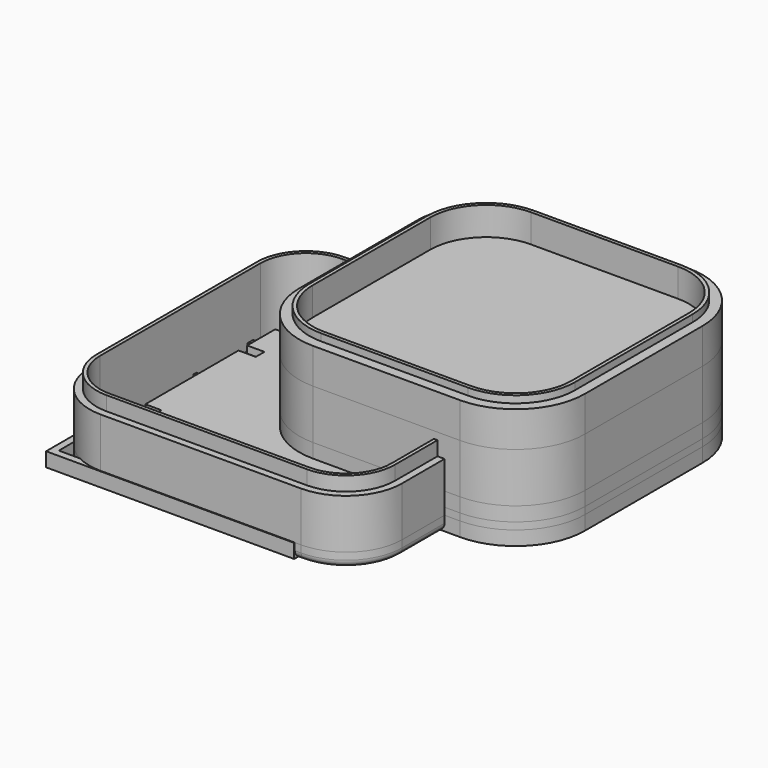
from build123d import *

# Parameters (mm, degrees)
PAD_DEPTH       = 12
POCKET001_DEPTH = 10
PAD001_DEPTH    = 5
PAD002_DEPTH    = 1
POCKET_DEPTH    = 3
PAD003_DEPTH    = 2
PAD004_DEPTH    = 2
POCKET002_DEPTH = 3
PAD005_DEPTH    = 5
PAD006_DEPTH    = 1
FILLET_R        = 3
SKETCH020_R     = 3.85
POCKET003_DEPTH = 5
FILLET001_R     = 1
POCKET004_DEPTH = 4
PAD007_DEPTH    = 1
PAD008_DEPTH    = 3
SKETCH025_R     = 4.275
POCKET005_DEPTH = 3.001
POCKET006_DEPTH = 2.001
FILLET002_R     = 1
PAD009_DEPTH    = 9
POCKET008_DEPTH = 8.001
FILLET003_R     = 2
PAD010_DEPTH    = 10
POCKET009_DEPTH = 10
PAD012_DEPTH    = 2


with BuildPart() as caja:
    # Sketch002 → Pad (new body)
    with BuildSketch(Plane.XY):
        with BuildLine():
            Line((7.77, -2), (28.53, -2))
            ThreePointArc((28.53, -2), (35.438433, 0.861567), (38.3, 7.77))
            Line((38.3, 7.77), (38.3, 28.53))
            ThreePointArc((38.3, 28.53), (35.438433, 35.438433), (28.53, 38.3))
            Line((28.53, 38.3), (7.769127, 38.3))
            ThreePointArc((7.769127, 38.3), (0.861311, 35.438689), (-2, 28.530873))
            Line((-2, 28.530873), (-2, 7.77))
            ThreePointArc((-2, 7.77), (0.861567, 0.861567), (7.77, -2))
        make_face()
    extrude(amount=PAD_DEPTH)

    # Sketch003 → Pocket001 (cut)
    with BuildSketch(Plane.XY.offset(12)):
        with BuildLine():
            Line((7.77, -1), (28.53, -1))
            ThreePointArc((28.53, -1), (34.731326, 1.568674), (37.3, 7.77))
            Line((37.3, 7.77), (37.3, 28.53))
            ThreePointArc((37.3, 28.53), (34.731326, 34.731326), (28.53, 37.3))
            Line((28.53, 37.3), (7.769127, 37.3))
            ThreePointArc((7.769127, 37.3), (1.568418, 34.731582), (-1, 28.530873))
            Line((-1, 28.530873), (-1, 7.77))
            ThreePointArc((-1, 7.77), (1.568674, 1.568674), (7.77, -1))
        make_face()
    extrude(amount=-POCKET001_DEPTH, mode=Mode.SUBTRACT)


with BuildPart() as obj1:
    # Sketch005 → Pad001 (new body)
    with BuildSketch(Plane.XY.offset(12)):
        with BuildLine():
            Line((7.77, -2), (28.53, -2))
            ThreePointArc((28.53, -2), (35.438433, 0.861567), (38.3, 7.77))
            Line((38.3, 7.77), (38.3, 28.53))
            ThreePointArc((38.3, 28.53), (35.438433, 35.438433), (28.53, 38.3))
            Line((28.53, 38.3), (7.769127, 38.3))
            ThreePointArc((7.769127, 38.3), (0.861311, 35.438689), (-2, 28.530873))
            Line((-2, 28.530873), (-2, 7.77))
            ThreePointArc((-2, 7.77), (0.861567, 0.861567), (7.77, -2))
        make_face()
    extrude(amount=PAD001_DEPTH)

    # Sketch009 → Pad002 (join)
    with BuildSketch(Plane.XY.offset(17)):
        with BuildLine():
            Line((7.77, -0.6), (28.53, -0.6))
            ThreePointArc((28.53, -0.6), (34.448484, 1.851516), (36.9, 7.77))
            Line((36.9, 7.77), (36.9, 28.53))
            ThreePointArc((36.9, 28.53), (34.448484, 34.448484), (28.53, 36.9))
            Line((28.53, 36.9), (7.769127, 36.9))
            ThreePointArc((7.769127, 36.9), (1.85126, 34.44874), (-0.6, 28.530873))
            Line((-0.6, 28.530873), (-0.6, 7.77))
            ThreePointArc((-0.6, 7.77), (1.851516, 1.851516), (7.77, -0.6))
        make_face()
        with BuildLine():
            Line((7.77, -0.1), (28.53, -0.1))
            ThreePointArc((28.53, -0.1), (34.09493, 2.20507), (36.4, 7.77))
            Line((36.4, 7.77), (36.4, 28.53))
            ThreePointArc((36.4, 28.53), (34.09493, 34.09493), (28.53, 36.4))
            Line((28.53, 36.4), (7.769127, 36.4))
            ThreePointArc((7.769127, 36.4), (2.204814, 34.095186), (-0.1, 28.530873))
            Line((-0.1, 28.530873), (-0.1, 7.77))
            ThreePointArc((-0.1, 7.77), (2.20507, 2.20507), (7.77, -0.1))
        make_face(mode=Mode.SUBTRACT)
    extrude(amount=PAD002_DEPTH)

    # Sketch008 (on Face10 of Pad001) → Pocket (cut)
    with BuildSketch(Plane.XY.offset(17)):
        with BuildLine():
            Line((7.77, -0.1), (28.53, -0.1))
            ThreePointArc((28.53, -0.1), (34.09493, 2.20507), (36.4, 7.77))
            Line((36.4, 7.77), (36.4, 28.53))
            ThreePointArc((36.4, 28.53), (34.09493, 34.09493), (28.53, 36.4))
            Line((28.53, 36.4), (7.769127, 36.4))
            ThreePointArc((7.769127, 36.4), (2.204814, 34.095186), (-0.1, 28.530873))
            Line((-0.1, 28.530873), (-0.1, 7.77))
            ThreePointArc((-0.1, 7.77), (2.20507, 2.20507), (7.77, -0.1))
        make_face()
    extrude(amount=-POCKET_DEPTH, mode=Mode.SUBTRACT)


with BuildPart() as obj2:
    # Sketch013 → Pad003 (new body)
    with BuildSketch(Plane.XY):
        with BuildLine():
            Line((7.77, -2), (28.53, -2))
            ThreePointArc((28.53, -2), (35.438433, 0.861567), (38.3, 7.77))
            Line((38.3, 7.77), (38.3, 28.53))
            ThreePointArc((38.3, 28.53), (35.438433, 35.438433), (28.53, 38.3))
            Line((28.53, 38.3), (7.769127, 38.3))
            ThreePointArc((7.769127, 38.3), (0.861311, 35.438689), (-2, 28.530873))
            Line((-2, 28.530873), (-2, 7.77))
            ThreePointArc((-2, 7.77), (0.861567, 0.861567), (7.77, -2))
        make_face()
    extrude(amount=PAD003_DEPTH)

    # Sketch (on Face10 of Pad003) → Pad004 (join)
    with BuildSketch(Plane.XY.offset(2)):
        with BuildLine():
            Line((7.77, 0.1), (28.53, 0.1))
            ThreePointArc((28.53, 0.1), (33.953509, 2.346491), (36.2, 7.77))
            Line((36.2, 7.77), (36.2, 28.53))
            ThreePointArc((36.2, 28.53), (33.953509, 33.953509), (28.53, 36.2))
            Line((28.53, 36.2), (7.769127, 36.2))
            ThreePointArc((7.769127, 36.2), (2.346235, 33.953765), (0.1, 28.530873))
            Line((0.1, 28.530873), (0.1, 7.77))
            ThreePointArc((0.1, 7.77), (2.346491, 2.346491), (7.77, 0.1))
        make_face()
    extrude(amount=PAD004_DEPTH)

    # Sketch014 (on Face19 of Pad004) → Pocket002 (cut)
    with BuildSketch(Plane.XY.offset(4)):
        with BuildLine():
            Line((7.77, 0.6), (28.53, 0.6))
            ThreePointArc((28.53, 0.6), (33.599956, 2.700044), (35.7, 7.77))
            Line((35.7, 7.77), (35.7, 28.53))
            ThreePointArc((35.7, 28.53), (33.599956, 33.599956), (28.53, 35.7))
            Line((28.53, 35.7), (7.769127, 35.7))
            ThreePointArc((7.769127, 35.7), (2.699789, 33.600211), (0.6, 28.530873))
            Line((0.6, 28.530873), (0.6, 7.77))
            ThreePointArc((0.6, 7.77), (2.700044, 2.700044), (7.77, 0.6))
        make_face()
    extrude(amount=-POCKET002_DEPTH, mode=Mode.SUBTRACT)


with BuildPart() as obj3:
    # Sketch017 → Pad005 (new body)
    with BuildSketch(Plane.XY):
        with BuildLine():
            Line((7.77, -2), (28.53, -2))
            ThreePointArc((28.53, -2), (35.438433, 0.861567), (38.3, 7.77))
            Line((38.3, 7.77), (38.3, 28.53))
            ThreePointArc((38.3, 28.53), (35.438433, 35.438433), (28.53, 38.3))
            Line((28.53, 38.3), (7.769127, 38.3))
            ThreePointArc((7.769127, 38.3), (0.861311, 35.438689), (-2, 28.530873))
            Line((-2, 28.530873), (-2, 7.77))
            ThreePointArc((-2, 7.77), (0.861567, 0.861567), (7.77, -2))
        make_face()
    extrude(amount=PAD005_DEPTH)

    # Sketch019 (on Face10 of Pad005) → Pad006 (join)
    with BuildSketch(Plane.XY.offset(5)):
        with BuildLine():
            Line((7.77, -0.9), (28.53, -0.9))
            ThreePointArc((28.53, -0.9), (34.660616, 1.639384), (37.2, 7.77))
            Line((37.2, 7.77), (37.2, 28.53))
            ThreePointArc((37.2, 28.53), (34.660616, 34.660616), (28.53, 37.2))
            Line((28.53, 37.2), (7.769127, 37.2))
            ThreePointArc((7.769127, 37.2), (1.639128, 34.660872), (-0.9, 28.530873))
            Line((-0.9, 28.530873), (-0.9, 7.77))
            ThreePointArc((-0.9, 7.77), (1.639384, 1.639384), (7.77, -0.9))
        make_face()
        with BuildLine():
            Line((7.77, 0.1), (28.53, 0.1))
            ThreePointArc((28.53, 0.1), (33.953509, 2.346491), (36.2, 7.77))
            Line((36.2, 7.77), (36.2, 28.53))
            ThreePointArc((36.2, 28.53), (33.953509, 33.953509), (28.53, 36.2))
            Line((28.53, 36.2), (7.769127, 36.2))
            ThreePointArc((7.769127, 36.2), (2.346235, 33.953765), (0.1, 28.530873))
            Line((0.1, 28.530873), (0.1, 7.77))
            ThreePointArc((0.1, 7.77), (2.346491, 2.346491), (7.77, 0.1))
        make_face(mode=Mode.SUBTRACT)
    extrude(amount=PAD006_DEPTH)

    # Fillet
    fillet_edges = [obj3.edges().sort_by_distance(p)[0] for p in [
        (18.15, -2, 0),
        (35.438433, 0.861567, 0),
        (38.3, 18.15, 0),
        (35.438433, 35.438433, 0),
        (18.149563, 38.3, 0),
        (0.861311, 35.438689, 0),
        (-2, 18.150437, 0),
        (0.861567, 0.861567, 0),
    ]]
    fillet(fillet_edges, radius=FILLET_R)

    # Sketch020 (on Face8 of Fillet) → Pocket003 (cut)
    with BuildSketch(Plane(origin=(0, 0, 0), x_dir=(1, 0, 0), z_dir=(0, 0, -1))):
        with Locations((10.337073, -10.016493)):
            Circle(SKETCH020_R)
        with Locations((10.337073, -26.330965)):
            Circle(SKETCH020_R)
        with Locations((26.615751, -10.016493)):
            Circle(SKETCH020_R)
        with Locations((26.615751, -26.330965)):
            Circle(SKETCH020_R)
    extrude(amount=-POCKET003_DEPTH, mode=Mode.SUBTRACT)

    # Fillet001
    fillet001_edges = [obj3.edges().sort_by_distance(p)[0] for p in [
        (6.487073, 26.330965, 0),
        (22.765751, 26.330965, 0),
        (22.765751, 10.016493, 0),
        (6.487073, 10.016493, 0),
    ]]
    fillet(fillet001_edges, radius=FILLET001_R)

    # Sketch021 (on Face26 of Fillet001) → Pocket004 (cut)
    with BuildSketch(Plane.XY.offset(5)):
        with BuildLine():
            Line((7.77, 0.1), (28.53, 0.1))
            ThreePointArc((28.53, 0.1), (33.953509, 2.346491), (36.2, 7.77))
            Line((36.2, 7.77), (36.2, 28.53))
            ThreePointArc((36.2, 28.53), (33.953509, 33.953509), (28.53, 36.2))
            Line((28.53, 36.2), (7.769127, 36.2))
            ThreePointArc((7.769127, 36.2), (2.346235, 33.953765), (0.1, 28.530873))
            Line((0.1, 28.530873), (0.1, 7.77))
            ThreePointArc((0.1, 7.77), (2.346491, 2.346491), (7.77, 0.1))
        make_face()
    extrude(amount=-POCKET004_DEPTH, mode=Mode.SUBTRACT)


with BuildPart() as chip:
    # Sketch022 → Pad007 (new body)
    with BuildSketch(Plane.XY):
        with BuildLine():
            ThreePointArc((-7.826848, 33.369706), (-8.49847, 32.603741), (-7.778878, 31.882654))
            Line((-7.778878, 31.882654), (-5.899068, 31.882654))
            Line((-5.899068, 31.882654), (-5.899068, 15.49757))
            Line((-5.899068, 15.49757), (-8.498091, 15.49757))
            Line((-8.498091, 15.49757), (-8.498091, 13.914577))
            Line((-8.498091, 13.914577), (-5.899068, 13.914577))
            Line((-5.899068, 13.914577), (-5.899068, 9.388634))
            Line((-5.899068, 9.388634), (-7.094616, 9.388634))
            ThreePointArc((-7.094616, 9.388634), (-8.123893, 9.42058), (-7.433607, 8.656421))
            Line((-7.433607, 8.656421), (-7.433607, 6.266273))
            ThreePointArc((-10.900149, 4.862692), (-9.018901, 5.199012), (-7.433607, 6.266273))
            Line((-10.900149, 4.862692), (-37.147157, 4.862692))
            ThreePointArc((-42.135984, 6.740418), (-39.842042, 5.268934), (-37.147157, 4.862692))
            Line((-42.135986, 8.770367), (-42.135984, 6.740418))
            ThreePointArc((-42.135986, 8.770367), (-41.703342, 9.814862), (-42.747837, 9.382218))
            Line((-42.747837, 9.382218), (-43.76482, 9.382218))
            Line((-43.76482, 14.053963), (-43.76482, 9.382218))
            Line((-43.76482, 14.053963), (-41.517834, 14.053963))
            Line((-41.517834, 14.053963), (-41.517834, 15.588985))
            Line((-41.517834, 15.588985), (-43.76482, 15.588985))
            Line((-43.76482, 15.588985), (-43.76482, 32.014164))
            Line((-43.76482, 32.014164), (-41.326569, 32.014164))
            Line((-41.326569, 32.014164), (-41.326569, 33.549187))
            Line((-41.326569, 33.549187), (-43.76482, 33.549187))
            Line((-43.76482, 33.549187), (-43.76482, 38.498352))
            Line((-43.76482, 38.498352), (-42.688227, 38.498352))
            ThreePointArc((-42.688227, 38.498352), (-41.751138, 37.827684), (-42.043179, 38.942423))
            Line((-42.043179, 38.942423), (-42.043179, 41.376652))
            ThreePointArc((-39.439118, 42.686676), (-40.857528, 42.263002), (-42.043179, 41.376652))
            Line((-39.439118, 42.686676), (-11.394731, 42.686676))
            ThreePointArc((-7.667545, 40.962711), (-9.338388, 42.241416), (-11.394731, 42.686676))
            Line((-7.667545, 40.962711), (-7.667545, 38.695119))
            ThreePointArc((-7.667545, 38.695119), (-8.210792, 37.738358), (-7.189573, 38.147774))
            Line((-7.189573, 38.147774), (-5.899068, 38.147774))
            Line((-5.899068, 38.147774), (-5.899068, 33.369706))
            Line((-7.826848, 33.369706), (-5.899068, 33.369706))
        make_face()
    extrude(amount=PAD007_DEPTH)


with BuildPart() as chip_1:
    # Body004 placement: moved
    add(chip.part.moved(Location((29, -19, 2))))


with BuildPart() as body:
    # Sketch024 → Pad008 (new body)
    with BuildSketch(Plane.XY):
        with BuildLine():
            Line((-17.779591, 18.792132), (-17.779591, -9.489618))
            ThreePointArc((-17.779591, -9.489618), (-15.46355, -15.081037), (-9.872131, -17.397079))
            Line((-9.872131, -17.397079), (18.40962, -17.397079))
            ThreePointArc((18.40962, -17.397079), (24.001039, -15.081037), (26.31708, -9.489618))
            Line((26.31708, -9.489618), (26.31708, 18.792132))
            ThreePointArc((26.31708, 18.792132), (24.001039, 24.383551), (18.40962, 26.699593))
            Line((18.40962, 26.699593), (-9.872131, 26.699593))
            ThreePointArc((-9.872131, 26.699593), (-15.46355, 24.383551), (-17.779591, 18.792132))
        make_face()
    extrude(amount=PAD008_DEPTH)

    # Sketch025 → Pocket005 (cut, through all)
    with BuildSketch(Plane.XY):
        with Locations((11.834944, 12.217457)):
            Circle(SKETCH025_R)
        with Locations((-3.297455, 12.217457)):
            Circle(SKETCH025_R)
        with Locations((-3.297455, -2.914942)):
            Circle(SKETCH025_R)
        with Locations((11.834944, -2.914942)):
            Circle(SKETCH025_R)
    extrude(amount=POCKET005_DEPTH, mode=Mode.SUBTRACT)

    # Sketch023 → Pocket006 (cut, through all)
    with BuildSketch(Plane.XY.offset(1)):
        with BuildLine():
            Line((-16.779591, 18.792132), (-16.779591, -9.489618))
            ThreePointArc((-16.779591, -9.489618), (-14.756443, -14.37393), (-9.872131, -16.397079))
            Line((-9.872131, -16.397079), (18.40962, -16.397079))
            ThreePointArc((18.40962, -16.397079), (23.293932, -14.37393), (25.31708, -9.489618))
            Line((25.31708, -9.489618), (25.31708, 18.792132))
            ThreePointArc((25.31708, 18.792132), (23.293932, 23.676445), (18.40962, 25.699593))
            Line((18.40962, 25.699593), (-9.872131, 25.699593))
            ThreePointArc((-9.872131, 25.699593), (-14.756443, 23.676445), (-16.779591, 18.792132))
        make_face()
    extrude(amount=POCKET006_DEPTH, mode=Mode.SUBTRACT)

    # Fillet002
    fillet002_edges = [body.edges().sort_by_distance(p)[0] for p in [
        (4.268745, 26.699593, 0),
    ]]
    fillet(fillet002_edges, radius=FILLET002_R)


with BuildPart() as body006:
    # Sketch028 → Pad009 (new body)
    with BuildSketch(Plane.XY):
        with BuildLine():
            Line((-17.779591, 18.792132), (-17.779591, -9.489618))
            ThreePointArc((-17.779591, -9.489618), (-15.46355, -15.081037), (-9.872131, -17.397079))
            Line((-9.872131, -17.397079), (18.40962, -17.397079))
            ThreePointArc((18.40962, -17.397079), (24.001039, -15.081037), (26.31708, -9.489618))
            Line((26.31708, -9.489618), (26.31708, 18.792132))
            ThreePointArc((26.31708, 18.792132), (24.001039, 24.383551), (18.40962, 26.699593))
            Line((18.40962, 26.699593), (-9.872131, 26.699593))
            ThreePointArc((-9.872131, 26.699593), (-15.46355, 24.383551), (-17.779591, 18.792132))
        make_face()
    extrude(amount=PAD009_DEPTH)

    # Sketch027 → Pocket008 (cut, through all)
    with BuildSketch(Plane.XY.offset(1)):
        with BuildLine():
            Line((-16.779591, 18.792132), (-16.779591, -9.489618))
            ThreePointArc((-16.779591, -9.489618), (-14.756443, -14.37393), (-9.872131, -16.397079))
            Line((-9.872131, -16.397079), (18.40962, -16.397079))
            ThreePointArc((18.40962, -16.397079), (23.293932, -14.37393), (25.31708, -9.489618))
            Line((25.31708, -9.489618), (25.31708, 18.792132))
            ThreePointArc((25.31708, 18.792132), (23.293932, 23.676445), (18.40962, 25.699593))
            Line((18.40962, 25.699593), (-9.872131, 25.699593))
            ThreePointArc((-9.872131, 25.699593), (-14.756443, 23.676445), (-16.779591, 18.792132))
        make_face()
    extrude(amount=POCKET008_DEPTH, mode=Mode.SUBTRACT)

    # Fillet003
    fillet003_edges = [body006.edges().sort_by_distance(p)[0] for p in [
        (4.268745, 26.699593, 0),
    ]]
    fillet(fillet003_edges, radius=FILLET003_R)

    # Sketch029 → Pad010 (join)
    with BuildSketch(Plane.XY.offset(1)):
        with BuildLine():
            Line((-16.779591, 18.792132), (-16.779591, -9.489618))
            ThreePointArc((-16.779591, -9.489618), (-14.756443, -14.37393), (-9.872131, -16.397079))
            Line((-9.872131, -16.397079), (18.40962, -16.397079))
            ThreePointArc((18.40962, -16.397079), (23.293932, -14.37393), (25.31708, -9.489618))
            Line((25.31708, -9.489618), (25.31708, 18.792132))
            ThreePointArc((25.31708, 18.792132), (23.293932, 23.676445), (18.40962, 25.699593))
            Line((18.40962, 25.699593), (-9.872131, 25.699593))
            ThreePointArc((-9.872131, 25.699593), (-14.756443, 23.676445), (-16.779591, 18.792132))
        make_face()
    extrude(amount=PAD010_DEPTH)

    # Sketch030 (on Face27 of Pad010) → Pocket009 (cut)
    with BuildSketch(Plane.XY.offset(11)):
        with BuildLine():
            Line((-16.279591, 18.792132), (-16.279591, -9.489618))
            ThreePointArc((-16.279591, -9.489618), (-14.402889, -14.020377), (-9.872131, -15.897079))
            Line((-9.872131, -15.897079), (18.40962, -15.897079))
            ThreePointArc((18.40962, -15.897079), (22.940379, -14.020377), (24.81708, -9.489618))
            Line((24.81708, -9.489618), (24.81708, 18.792132))
            ThreePointArc((24.81708, 18.792132), (22.940379, 23.322891), (18.40962, 25.199593))
            Line((18.40962, 25.199593), (-9.872131, 25.199593))
            ThreePointArc((-9.872131, 25.199593), (-14.402889, 23.322891), (-16.279591, 18.792132))
        make_face()
    extrude(amount=-POCKET009_DEPTH, mode=Mode.SUBTRACT)


with BuildPart() as body007:
    # Sketch034 → Pad012 (new body)
    with BuildSketch(Plane.XY):
        Polygon((-17.5, 0), (-17.5, 17.5), (0, 17.5), (17.5, 17.5), (17.5, 0), (17.5, -17.5), (0, -17.5), (-17.5, -17.5), align=None)
        Polygon((-14.5, 7), (-16.5, 7), (-16.5, 0), (-16.5, -7), (-14.5, -7), (-14.5, -7.5), (-16.5, -7.5), (-16.5, -16.5), (-7.5, -16.5), (-7.5, -14.5), (-7, -14.5), (-7, -16.5), (0, -16.5), (7, -16.5), (7, -14.5), (7.5, -14.5), (7.5, -16.5), (16.5, -16.5), (16.5, -7.5), (14.5, -7.5), (14.5, -7), (16.5, -7), (16.5, 0), (16.5, 7), (14.5, 7), (14.5, 7.5), (16.5, 7.5), (16.5, 16.5), (7.5, 16.5), (7.5, 14.5), (7, 14.5), (7, 16.5), (0, 16.5), (-7, 16.5), (-7, 14.5), (-7.5, 14.5), (-7.5, 16.5), (-16.5, 16.5), (-16.5, 7.5), (-14.5, 7.5), align=None, mode=Mode.SUBTRACT)
    extrude(amount=PAD012_DEPTH)


solid = Compound([caja.part, obj1.part, obj2.part, obj3.part, chip_1.part, body.part, body006.part, body007.part])
